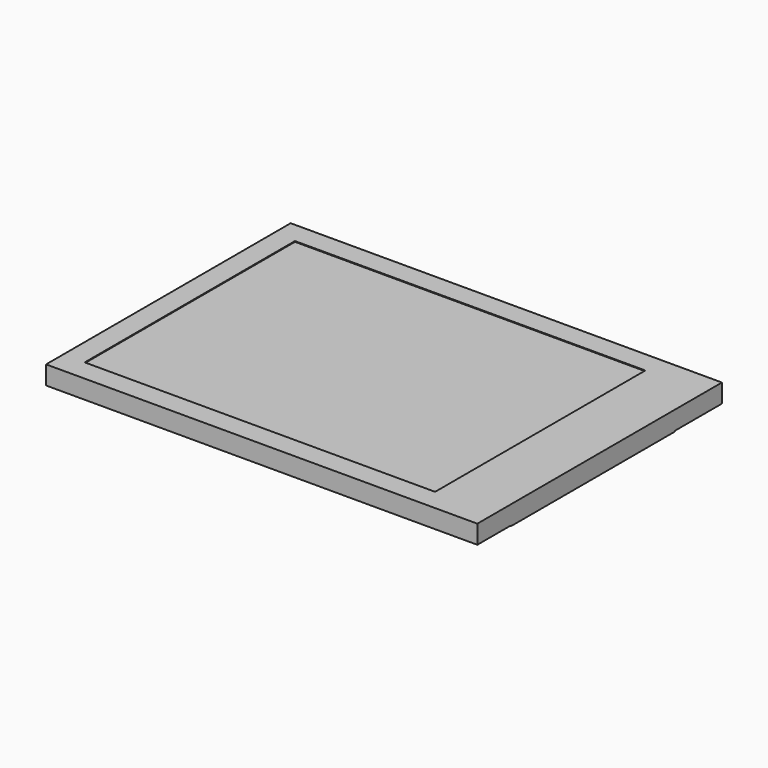
from build123d import *

# Parameters (mm, degrees)
SKETCH_W            = 60.26
SKETCH_H            = 42.72
PAD_DEPTH           = 2.6
SKETCH001_W         = 48.96
SKETCH001_H         = 36.72
POCKET_DEPTH        = 0.1
PAD001_DEPTH        = 0.1
FILLET_R            = 0.5
SKETCH003_W         = 2.5
SKETCH003_H         = 0.4
PAD002_DEPTH        = 0.05
LINEARPATTERN_COUNT = 18
LINEARPATTERN_PITCH = 0.8


with BuildPart() as part:
    # Sketch → Pad (new body)
    with BuildSketch(Plane.XY):
        with Locations((30.13, 21.36)):
            Rectangle(SKETCH_W, SKETCH_H)
    extrude(amount=PAD_DEPTH)

    # Sketch001 (on Face6 of Pad) → Pocket (cut)
    with BuildSketch(Plane.XY.offset(2.6)):
        with Locations((27.48, 21.36)):
            Rectangle(SKETCH001_W, SKETCH001_H)
    extrude(amount=-POCKET_DEPTH, mode=Mode.SUBTRACT)

    # Sketch002 (on Face4 of Pocket) → Pad001 (join)
    with BuildSketch(Plane(origin=(0, 0, 0), x_dir=(1, 0, 0), z_dir=(0, 0, -1))):
        Polygon((60.26, -5.6), (46.5, -5.6), (46.5, -12.9), (42.5, -12.9), (42.5, -28.5), (46.5, -28.5), (46.5, -34.9), (60.26, -34.9), align=None)
    extrude(amount=PAD001_DEPTH)

    # Fillet
    fillet_edges = [part.edges().sort_by_distance(p)[0] for p in [
        (46.5, 5.6, -0.05),
        (46.5, 12.9, -0.05),
        (42.5, 12.9, -0.05),
        (42.5, 28.5, -0.05),
        (46.5, 28.5, -0.05),
        (46.5, 34.9, -0.05),
        (60.26, 34.9, -0.05),
        (60.26, 5.6, -0.05),
    ]]
    fillet(fillet_edges, radius=FILLET_R)

    # Sketch003 (on Face22 of Fillet) → Pad002 (join)
    with BuildSketch(Plane(origin=(0, 0, -0.1), x_dir=(1, 0, 0), z_dir=(0, 0, -1))):
        with Locations((43.75, -13.9)):
            Rectangle(SKETCH003_W, SKETCH003_H)
    pad002 = extrude(amount=PAD002_DEPTH)

    # LinearPattern: Pad002 ×18
    with Locations(*[(0, i * LINEARPATTERN_PITCH, 0) for i in range(1, LINEARPATTERN_COUNT)]):
        add(pad002)


solid = part.part
